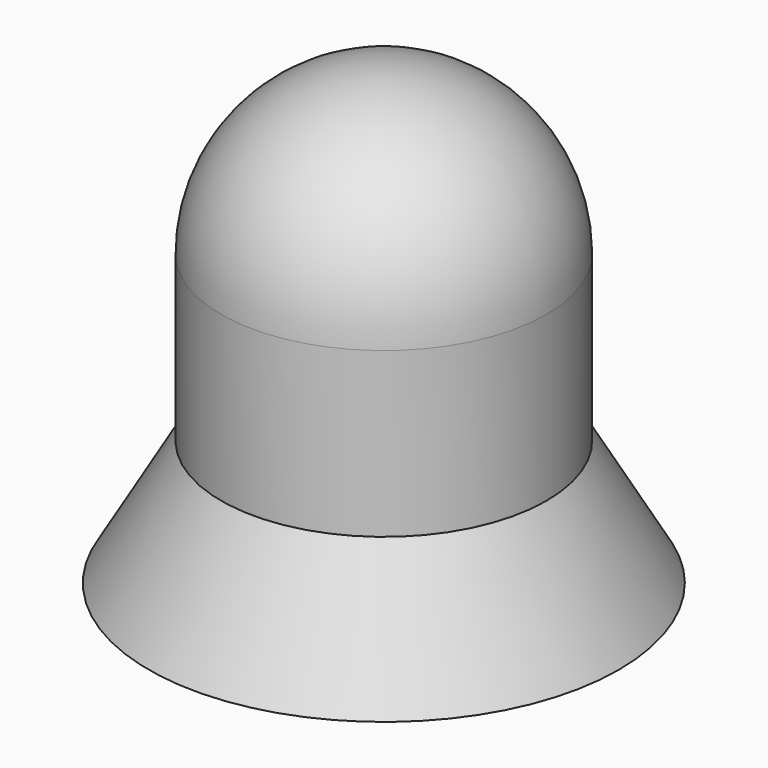
from build123d import *

# Parameters (mm, degrees)
F2_SCALE = 3


with BuildPart() as f1:
    # F0 (on Front) → F1 (revolve)
    with BuildSketch(Plane.XZ):
        with BuildLine():
            Line((0.5416666667, 1.8), (0.5416666667, 0))
            Line((0.5416666667, 0), (1.3, 0))
            Line((1.3, 0), (0.9, 0.692820323))
            Line((0.9, 0.692820323), (0.9, 1.6))
            ThreePointArc((0.9, 1.6), (0.6363961031, 2.2363961031), (0, 2.5))
            Line((0, 2.5), (0, 1.8))
            Line((0, 1.8), (0.5416666667, 1.8))
        make_face()
    revolve(axis=Axis((0, 0, 2.15), (0, 0, -1)))


with BuildPart() as f1_1:
    # F2: moved
    add(f1.part.scale(F2_SCALE))


solid = f1_1.part
